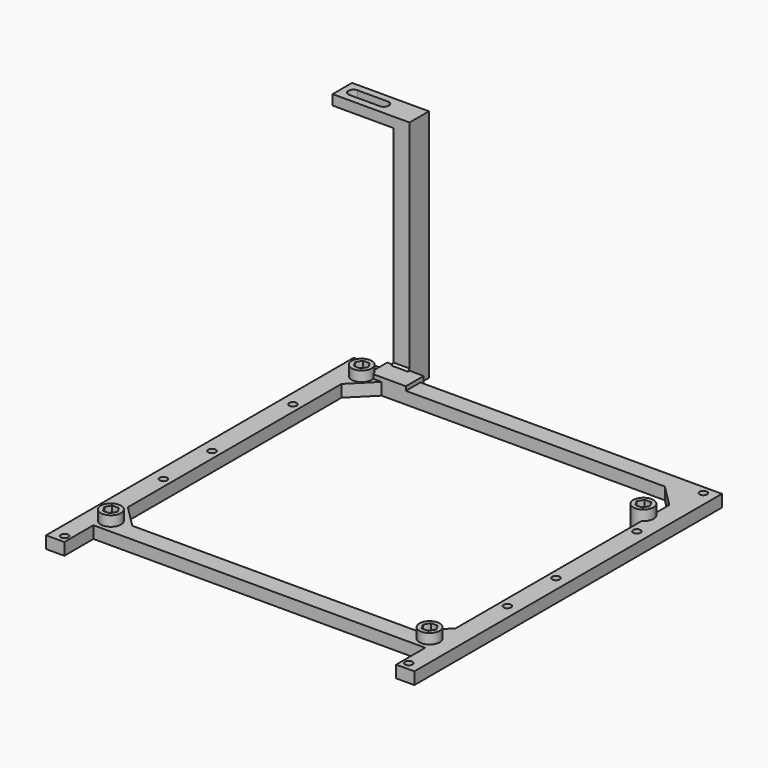
from build123d import *

# Parameters (mm, degrees)
SKETCH158_R          = 1.85
PAD009_DEPTH         = 6
SKETCH159_R          = 5
PAD010_DEPTH         = 5
PAD010_DEPTH_BACK    = 6
SKETCH160_R          = 1.85
POCKET006_DEPTH      = 6.001
POCKET006_DEPTH_BACK = 5.001
POCKET007_DEPTH      = 3
SKETCH162_W          = 18
SKETCH162_H          = 8
PAD011_DEPTH         = 2
PAD011_DEPTH_BACK    = 9
PAD012_DEPTH         = 12
POCKET008_DEPTH      = 5
CHAMFER_SIZE         = 1


with BuildPart() as part:
    # Sketch158 → Pad009 (new body)
    with BuildSketch(Plane.XY):
        Polygon((-91, -102), (-91, 88), (0, 88), (0, 79), (-70, 79), (-81, 68), (-81, -64), (-70, -75), (0, -75), (0, -84), (-82, -84), (-82, -102), align=None)
        with Locations((-85, 84)):
            Circle(SKETCH158_R, mode=Mode.SUBTRACT)
        with Locations((-85, -7)):
            Circle(SKETCH158_R, mode=Mode.SUBTRACT)
        with Locations((-85, -98)):
            Circle(SKETCH158_R, mode=Mode.SUBTRACT)
        with Locations((-85, 43)):
            Circle(SKETCH158_R, mode=Mode.SUBTRACT)
        with Locations((-85, -37)):
            Circle(SKETCH158_R, mode=Mode.SUBTRACT)
    pad009 = extrude(amount=PAD009_DEPTH)

    # Mirrored: Pad009 across Sketch158 V_Axis
    add(pad009.mirror(Plane(origin=(0, 0, 0), x_dir=(0, 0, 1), z_dir=(1, 0, 0))))

    # Sketch159 → Pad010 (join, two sides)
    with BuildSketch(Plane.XY.offset(6)) as pad010_sk:
        with Locations((-79, 78)):
            Circle(SKETCH159_R)
        with Locations((-79, -76.94)):
            Circle(SKETCH159_R)
        with Locations((78.48, -76.94)):
            Circle(SKETCH159_R)
        with Locations((78.48, 55.14)):
            Circle(SKETCH159_R)
    extrude(amount=PAD010_DEPTH)
    extrude(pad010_sk.sketch, amount=-PAD010_DEPTH_BACK)

    # Sketch160 → Pocket006 (cut, two sides)
    with BuildSketch(Plane.XY.offset(6)) as pocket006_sk:
        with Locations((-79, 78)):
            Circle(SKETCH160_R)
        with Locations((-79, -76.94)):
            Circle(SKETCH160_R)
        with Locations((78.48, -76.94)):
            Circle(SKETCH160_R)
        with Locations((78.48, 55.14)):
            Circle(SKETCH160_R)
    extrude(amount=-POCKET006_DEPTH, mode=Mode.SUBTRACT)
    extrude(pocket006_sk.sketch, amount=POCKET006_DEPTH_BACK, mode=Mode.SUBTRACT)

    # Sketch161 → Pocket007 (cut)
    with BuildSketch(Plane.XY.offset(11)):
        Polygon((-75.709103, 78), (-77.354552, 80.85), (-80.645448, 80.85), (-82.290897, 78), (-80.645448, 75.15), (-77.354552, 75.15), align=None)
        Polygon((81.770897, 55.14), (80.125448, 57.99), (76.834552, 57.99), (75.189103, 55.14), (76.834552, 52.29), (80.125448, 52.29), align=None)
        Polygon((81.770897, -76.94), (80.125448, -74.09), (76.834552, -74.09), (75.189103, -76.94), (76.834552, -79.79), (80.125448, -79.79), align=None)
        Polygon((-75.709103, -76.94), (-77.354552, -74.09), (-80.645448, -74.09), (-82.290897, -76.94), (-80.645448, -79.79), (-77.354552, -79.79), align=None)
    extrude(amount=-POCKET007_DEPTH, mode=Mode.SUBTRACT)

    # Sketch162 → Pad011 (join, two sides)
    with BuildSketch(Plane(origin=(0, 88, 0), x_dir=(-1, 0, 0), z_dir=(0, 1, 0))) as pad011_sk:
        with Locations((67, 4)):
            Rectangle(SKETCH162_W, SKETCH162_H)
    extrude(amount=PAD011_DEPTH)
    extrude(pad011_sk.sketch, amount=-PAD011_DEPTH_BACK)

    # Sketch166 (on Face53 of Pad011) → Pad012 (join)
    with BuildSketch(Plane(origin=(0, 90, 0), x_dir=(-1, 0, 0), z_dir=(0, 1, 0))):
        Polygon((73, 0), (65, 0), (65, 116), (103, 116), (103, 111), (73, 111), align=None)
    extrude(amount=PAD012_DEPTH)

    # Sketch167 (on Face88 of Pad012) → Pocket008 (cut)
    with BuildSketch(Plane.XY.offset(116)):
        with BuildLine():
            ThreePointArc((-97.5, 98.5), (-100, 96), (-97.5, 93.5))
            Line((-97.5, 93.5), (-82.5, 93.5))
            ThreePointArc((-82.5, 93.5), (-80, 96), (-82.5, 98.5))
            Line((-97.5, 98.5), (-82.5, 98.5))
        make_face()
    extrude(amount=-POCKET008_DEPTH, mode=Mode.SUBTRACT)

    # Chamfer
    chamfer_edges = [part.edges().sort_by_distance(p)[0] for p in [
        (-69, 90, 8),
    ]]
    chamfer(chamfer_edges, length=CHAMFER_SIZE)


with BuildPart() as part_1:
    # Body006 placement: moved
    add(part.part.moved(Location((0, 2, 118))))


solid = part_1.part
